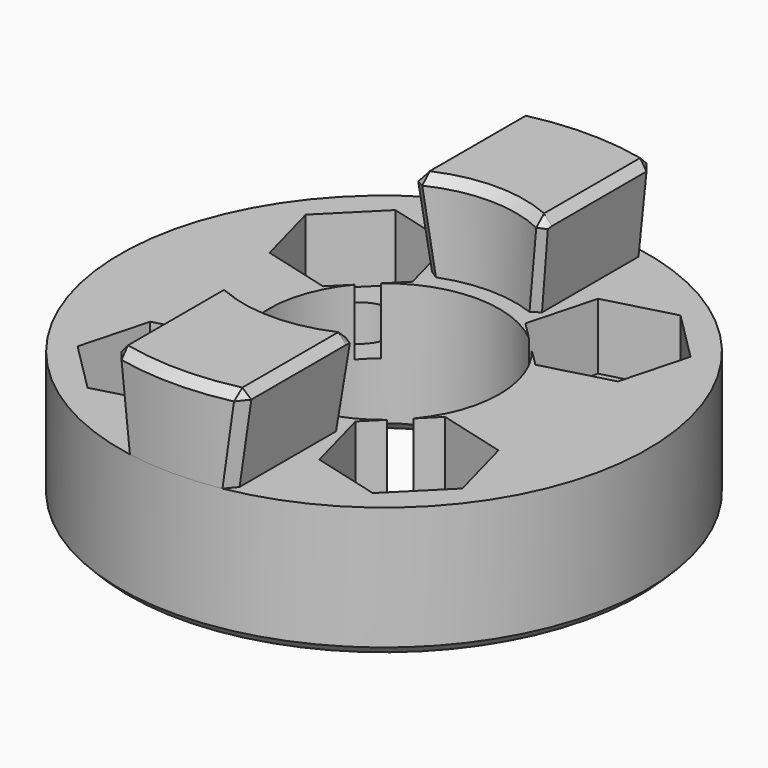
from build123d import *

# Parameters (mm, degrees)
TUBE_R                    = 12
TUBE_R_2                  = 6
TUBE_DEPTH                = 10
PAD005_DEPTH              = 40
CHAMFER_SIZE              = 0.4
CHAMFER_PLACEMENT_ANGLE   = 45
SKETCH006_R               = 12
SKETCH006_R_2             = 5.25
SKETCH006_R_3             = 1.6
PAD004_DEPTH              = 6
POCKET002_DEPTH           = 3
CHAMFER001_SIZE           = 0.4
FUSION003_PLACEMENT_ANGLE = 45


with BuildPart() as tube:
    # Tube → Tube (new body)
    with BuildSketch(Plane.XY):
        Circle(TUBE_R)
        Circle(TUBE_R_2, mode=Mode.SUBTRACT)
    extrude(amount=TUBE_DEPTH)


with BuildPart() as chamfer_body:
    # Sketch008 → Pad005 (new body)
    with BuildSketch(Plane.XZ):
        Polygon((-2.5, 0), (2.5, 0), (3, 4), (-3, 4), align=None)
    extrude(amount=PAD005_DEPTH)


with BuildPart() as chamfer_body_1:
    # Body003 placement: moved
    add(chamfer_body.part.moved(Location((0, 20, 0))))

    # Common: intersect Tube
    add(tube.part, mode=Mode.INTERSECT)

    # Chamfer
    chamfer_edges = [chamfer_body_1.edges().sort_by_distance(p)[0] for p in [
        (2.75001, 11.680644, 2.000082),
        (0, 12, 4),
        (-2.75001, 11.680644, 2.000082),
        (3, 8.407551, 4),
        (2.750059, 5.332652, 2.000471),
        (0, 6, 4),
        (-2.750059, 5.332652, 2.000471),
        (-3, 8.407551, 4),
        (-2.750059, -5.332652, 2.000471),
        (0, -6, 4),
        (2.750059, -5.332652, 2.000471),
        (3, -8.407551, 4),
        (2.75001, -11.680644, 2.000082),
        (-2.75001, -11.680644, 2.000082),
        (0, -12, 4),
        (-3, -8.407551, 4),
    ]]
    chamfer(chamfer_edges, length=CHAMFER_SIZE)


with BuildPart() as chamfer_body_2:
    # Chamfer placement: moved
    add(chamfer_body_1.part.moved(Location((0, 0, 6))).rotate(Axis((0, 0, 6), (0, 0, -1)), CHAMFER_PLACEMENT_ANGLE))


with BuildPart() as fusion003:
    # Sketch006 → Pad004 (new body)
    with BuildSketch(Plane.XY):
        Circle(SKETCH006_R)
        Circle(SKETCH006_R_2, mode=Mode.SUBTRACT)
        with Locations((-8, 0)):
            Circle(SKETCH006_R_3, mode=Mode.SUBTRACT)
        with Locations((8, 0)):
            Circle(SKETCH006_R_3, mode=Mode.SUBTRACT)
        with Locations((0, 8)):
            Circle(SKETCH006_R_3, mode=Mode.SUBTRACT)
        with Locations((0, -8)):
            Circle(SKETCH006_R_3, mode=Mode.SUBTRACT)
    extrude(amount=PAD004_DEPTH)

    # Sketch007 (on Face8 of Pad004) → Pocket002 (cut)
    with BuildSketch(Plane.XY.offset(6)):
        Polygon((3.2, 8), (1.6, 10.771281), (-1.6, 10.771281), (-3.2, 8), (-1.6, 5.228719), (1.6, 5.228719), align=None)
        Polygon((-8, -3.2), (-5.228719, -1.6), (-5.228719, 1.6), (-8, 3.2), (-10.771281, 1.6), (-10.771281, -1.6), align=None)
        Polygon((8, -3.2), (10.771281, -1.6), (10.771281, 1.6), (8, 3.2), (5.228719, 1.6), (5.228719, -1.6), align=None)
        Polygon((1.6, -10.771281), (3.2, -8), (1.6, -5.228719), (-1.6, -5.228719), (-3.2, -8), (-1.6, -10.771281), align=None)
    extrude(amount=-POCKET002_DEPTH, mode=Mode.SUBTRACT)

    # Chamfer001
    chamfer001_edges = [fusion003.edges().sort_by_distance(p)[0] for p in [
        (-12, 0, 0),
        (-5.25, 0, 0),
        (-1.6, -8, 0),
        (-1.6, 8, 0),
        (6.4, 0, 0),
        (-9.6, 0, 0),
    ]]
    chamfer(chamfer001_edges, length=CHAMFER001_SIZE)

    # Fusion003: union Chamfer body
    add(chamfer_body_2.part)


with BuildPart() as fusion003_1:
    # Fusion003 placement: moved
    add(fusion003.part.moved(Location((0, 0, -6))).rotate(Axis((0, 0, -6), (0, 0, 1)), FUSION003_PLACEMENT_ANGLE))


solid = fusion003_1.part
